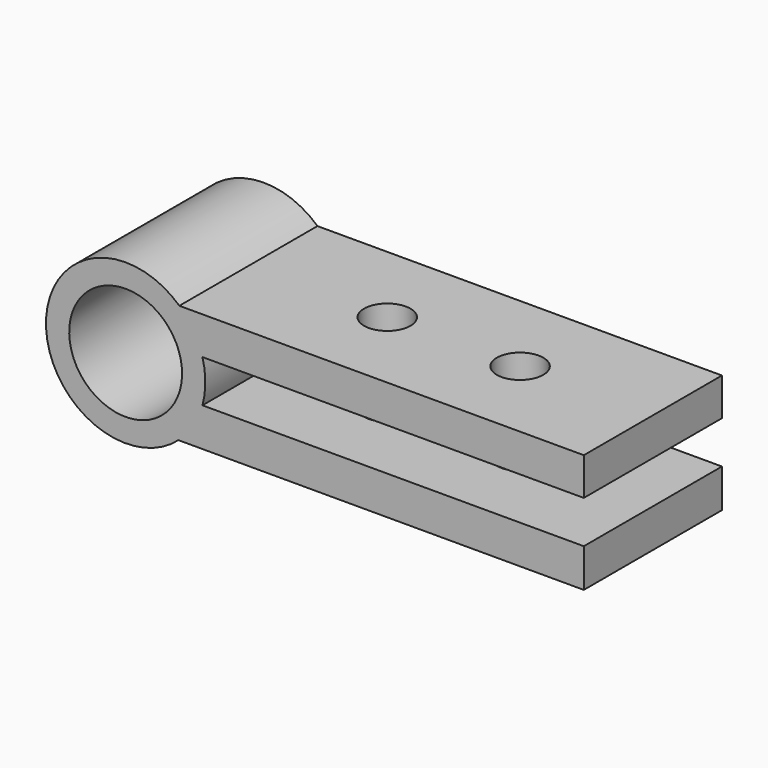
from build123d import *

# Parameters (mm, degrees)
F0_R     = 6
F0_R_2   = 4.25
F1_DEPTH = 13
F2_W     = 13
F2_H     = 2.833082
F2_H_2   = 2.897769
F3_DEPTH = 34.5
F4_R     = 4.25
F5_DEPTH = 13.001
F6_R     = 1.75
F7_DEPTH = 8.930851


with BuildPart() as f1:
    # F0 (on Front) → F1 (new body)
    with BuildSketch(Plane.XZ):
        Circle(F0_R)
        Circle(F0_R_2, mode=Mode.SUBTRACT)
    extrude(amount=-F1_DEPTH)

    # F2 (on Right) → F3 (join)
    with BuildSketch(Plane.YZ):
        with Locations((6.5, 3.016541)):
            Rectangle(F2_W, F2_H)
        with Locations((6.5, -3.048884)):
            Rectangle(F2_W, F2_H_2)
    extrude(amount=F3_DEPTH)

    # F4 (on face) → F5 (cut, through all)
    with BuildSketch(Plane(origin=(0, 13, 0), x_dir=(-1, 0, 0), z_dir=(0, 1, 0))):
        Circle(F4_R)
    extrude(amount=-F5_DEPTH, mode=Mode.SUBTRACT)

    # F6 (on face) → F7 (cut, through all)
    with BuildSketch(Plane.XY.offset(4.433082)):
        with Locations((14.5, 6.5)):
            Circle(F6_R)
        with Locations((24.5, 6.5)):
            Circle(F6_R)
    extrude(amount=-F7_DEPTH, mode=Mode.SUBTRACT)


solid = f1.part
